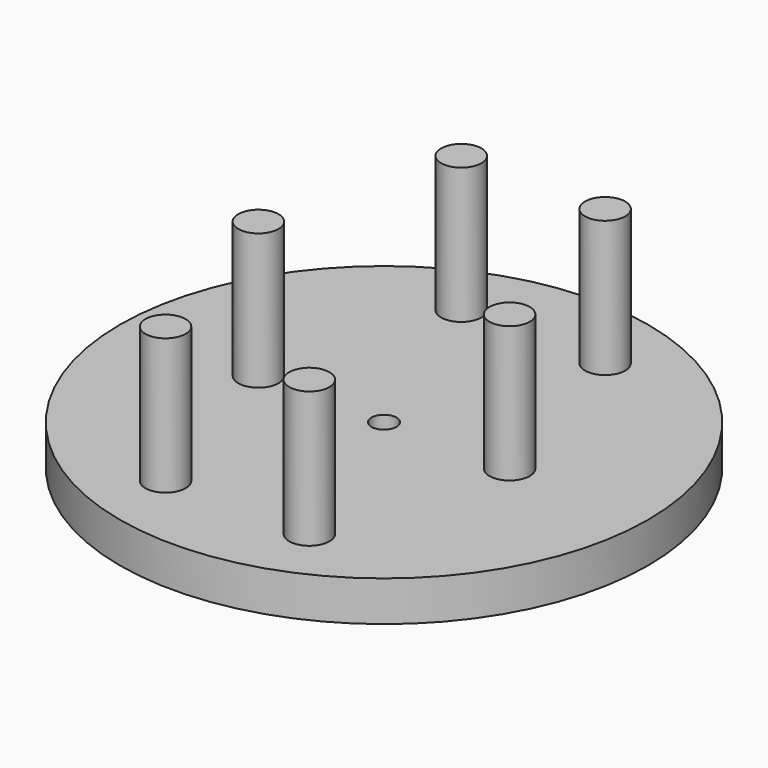
from build123d import *

# Parameters (mm, degrees)
F0_R     = 4
F1_DEPTH = 34.99993
F0_R_2   = 52.499997
F0_R_3   = 2.499995
F2_DEPTH = 8


with BuildPart() as f1:
    # F0 (on Top) → F1 (new body)
    with BuildSketch(Plane.XY):
        with Locations((-24.963507, 0)):
            Circle(F0_R)
        with Locations((-14.185139, -36.55133)):
            Circle(F0_R)
        with Locations((14.403568, -36.55133)):
            Circle(F0_R)
        with Locations((24.964135, 0)):
            Circle(F0_R)
        with Locations((14.403568, 36.935072)):
            Circle(F0_R)
        with Locations((-14.185139, 36.935072)):
            Circle(F0_R)
    extrude(amount=F1_DEPTH)


with BuildPart() as f2:
    # F0 (on Top) → F2 (new body)
    with BuildSketch(Plane.XY):
        Circle(F0_R_2)
        with Locations((-14.185139, -36.55133)):
            Circle(F0_R, mode=Mode.SUBTRACT)
        with Locations((14.403568, -36.55133)):
            Circle(F0_R, mode=Mode.SUBTRACT)
        with Locations((-24.963507, 0)):
            Circle(F0_R, mode=Mode.SUBTRACT)
        with Locations((-14.185139, 36.935072)):
            Circle(F0_R, mode=Mode.SUBTRACT)
        Circle(F0_R_3, mode=Mode.SUBTRACT)
        with Locations((24.964135, 0)):
            Circle(F0_R, mode=Mode.SUBTRACT)
        with Locations((14.403568, 36.935072)):
            Circle(F0_R, mode=Mode.SUBTRACT)
    extrude(amount=F2_DEPTH)


solid = Compound([f1.part, f2.part])
